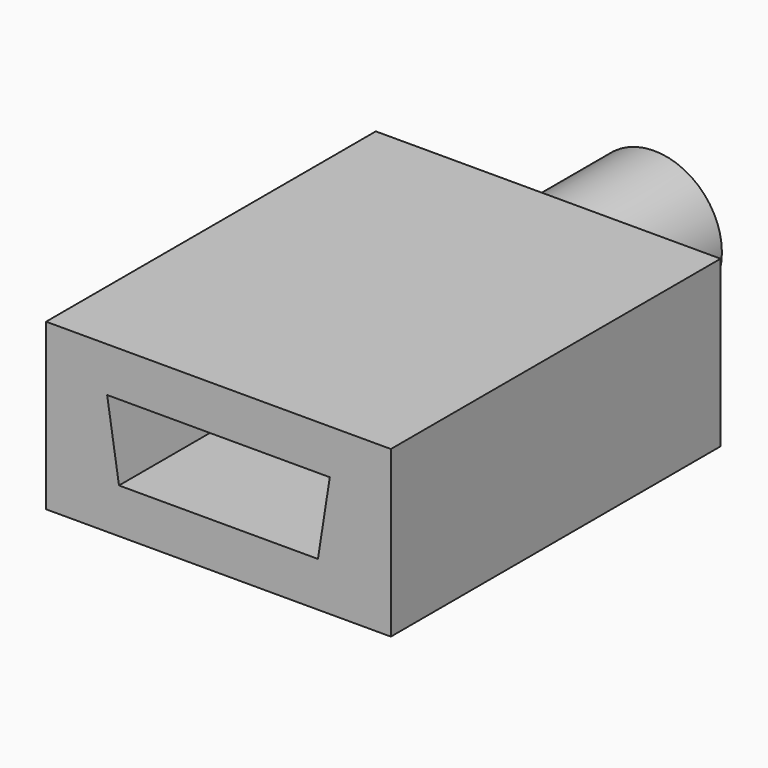
from build123d import *

# Parameters (mm, degrees)
F0_R     = 3.6256
F3_DEPTH = 3.81
F2_W     = 18.4858385473
F2_H     = 8.8563207537
F4_DEPTH = 22.098
F5_DEPTH = 22.352
F6_DEPTH = 21.336


with BuildPart() as f3:
    # F0 (on Front) → F3 (new body, symmetric)
    with BuildSketch(Plane.XZ):
        Circle(F0_R)
        with BuildLine():
            ThreePointArc((1.2482232973, 1.0414), (0, -1.6256), (-1.2482232973, 1.0414))
            Line((-1.2482232973, 1.0414), (0.1749682033, 1.0414))
            Line((0.1749682033, 1.0414), (1.2482232973, 1.0414))
        make_face(mode=Mode.SUBTRACT)
    extrude(amount=F3_DEPTH, both=True)


with BuildPart() as f4:
    # F2 (on offset) → F4 (new body)
    with BuildSketch(Plane.XZ.offset(25.4)):
        Rectangle(F2_W, F2_H)
        Polygon((-5.969, 2.032), (0, 2.032), (5.969, 2.032), (5.334, -2.032), (0, -2.032), (-5.334, -2.032), align=None, mode=Mode.SUBTRACT)
    extrude(amount=-F4_DEPTH)


with BuildPart() as f5:
    # F2 (on offset) → F5 (new body)
    with BuildSketch(Plane.XZ.offset(25.4)):
        Polygon((5.969, 2.032), (0, 2.032), (-5.969, 2.032), (-5.334, -2.032), (0, -2.032), (5.334, -2.032), align=None)
    extrude(amount=-F5_DEPTH)

    # F6 (cut): a face of the model
    f6_faces = [f5.faces().sort_by_distance(p)[0] for p in [
        (0, -25.4, 0.0380524345),
    ]]
    extrude(f6_faces, amount=-F6_DEPTH, mode=Mode.SUBTRACT)


solid = Compound([f3.part, f4.part, f5.part])
